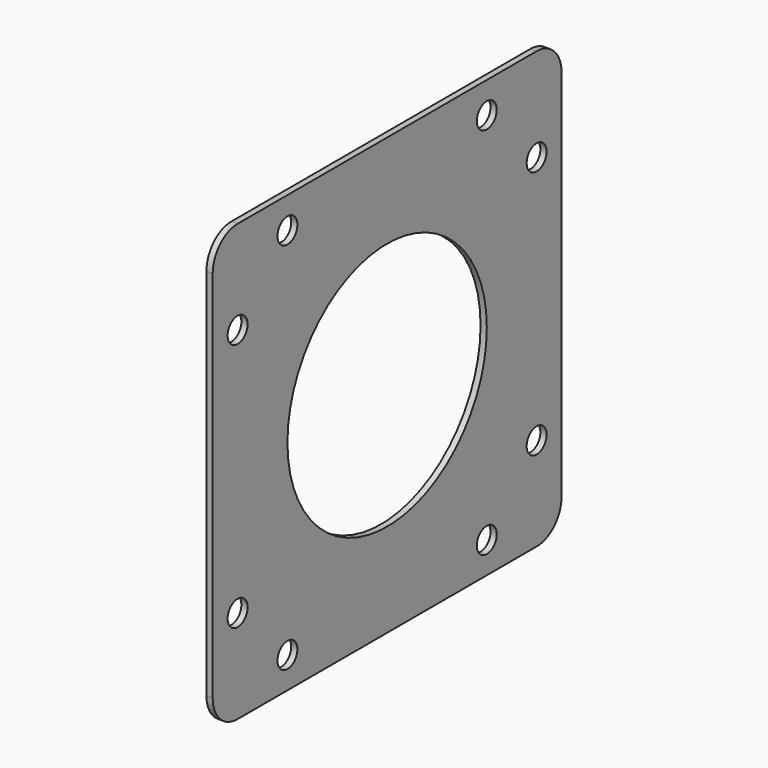
from build123d import *

# Parameters (mm, degrees)
F1_DEPTH = 2
F2_R     = 4
F2_R_2   = 40
F3_DEPTH = 2


with BuildPart() as f1:
    # F0 (on Right) → F1 (new body)
    with BuildSketch(Plane.YZ):
        with BuildLine():
            Line((56.470588, 73.823529), (-63.529412, 73.823529))
            ThreePointArc((-63.529412, 73.823529), (-70.60048, 70.894597), (-73.529412, 63.823529))
            Line((-73.529412, 63.823529), (-73.529412, -56.176471))
            ThreePointArc((-73.529412, -56.176471), (-70.60048, -63.247538), (-63.529412, -66.176471))
            Line((-63.529412, -66.176471), (56.470588, -66.176471))
            ThreePointArc((56.470588, -66.176471), (63.541656, -63.247538), (66.470588, -56.176471))
            Line((66.470588, -56.176471), (66.470588, 63.823529))
            ThreePointArc((66.470588, 63.823529), (63.541656, 70.894597), (56.470588, 73.823529))
        make_face()
    extrude(amount=F1_DEPTH)

    # F2 (on face) → F3 (cut, through all)
    with BuildSketch(Plane.YZ.offset(2)):
        with Locations((-63.529412, 43.823529)):
            Circle(F2_R)
        with Locations((-43.529412, 63.823529)):
            Circle(F2_R)
        with Locations((-63.529412, -36.176471)):
            Circle(F2_R)
        with Locations((-43.529412, -56.176471)):
            Circle(F2_R)
        with Locations((36.470588, -56.176471)):
            Circle(F2_R)
        with Locations((56.470588, -36.176471)):
            Circle(F2_R)
        with Locations((56.470588, 43.823529)):
            Circle(F2_R)
        with Locations((36.470588, 63.823529)):
            Circle(F2_R)
        with Locations((-3.529412, 3.823529)):
            Circle(F2_R_2)
    extrude(amount=-F3_DEPTH, mode=Mode.SUBTRACT)


solid = f1.part
